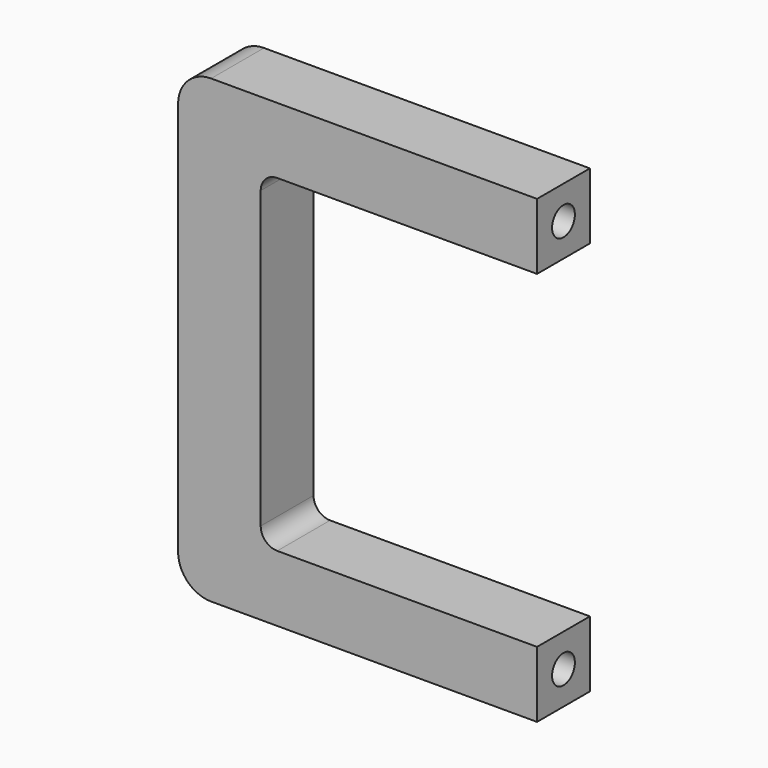
from build123d import *

# Parameters (mm, degrees)
F2_DEPTH = 8
F4_D     = 3.4544


with BuildPart() as f2:
    # F1 (on Front) → F2 (new body)
    with BuildSketch(Plane.XZ):
        with BuildLine():
            Line((-31.46, 0), (0, 0))
            Line((0, 0), (0, 8))
            Line((0, 8), (-39.46, 8))
            ThreePointArc((-39.46, 8), (-42.2884271247, 6.8284271247), (-43.46, 4))
            Line((-43.46, 4), (-43.46, 0))
            Line((-43.46, 0), (-43.46, -43.75))
            ThreePointArc((-43.46, -43.75), (-42.2884271247, -46.5784271247), (-39.46, -47.75))
            Line((-39.46, -47.75), (-33.46, -47.75))
            Line((-33.46, -47.75), (0, -47.75))
            Line((0, -47.75), (0, -39.75))
            Line((0, -39.75), (-31.46, -39.75))
            ThreePointArc((-31.46, -39.75), (-32.8742135624, -39.1642135624), (-33.46, -37.75))
            Line((-33.46, -37.75), (-33.46, -2))
            ThreePointArc((-33.46, -2), (-32.8742135624, -0.5857864376), (-31.46, 0))
        make_face()
    extrude(amount=F2_DEPTH)

    # F4 (through all)
    with Locations(Plane.YZ):
        with Locations((-4, 4), (-4, -43.75)):
            Hole(F4_D / 2)


solid = f2.part
